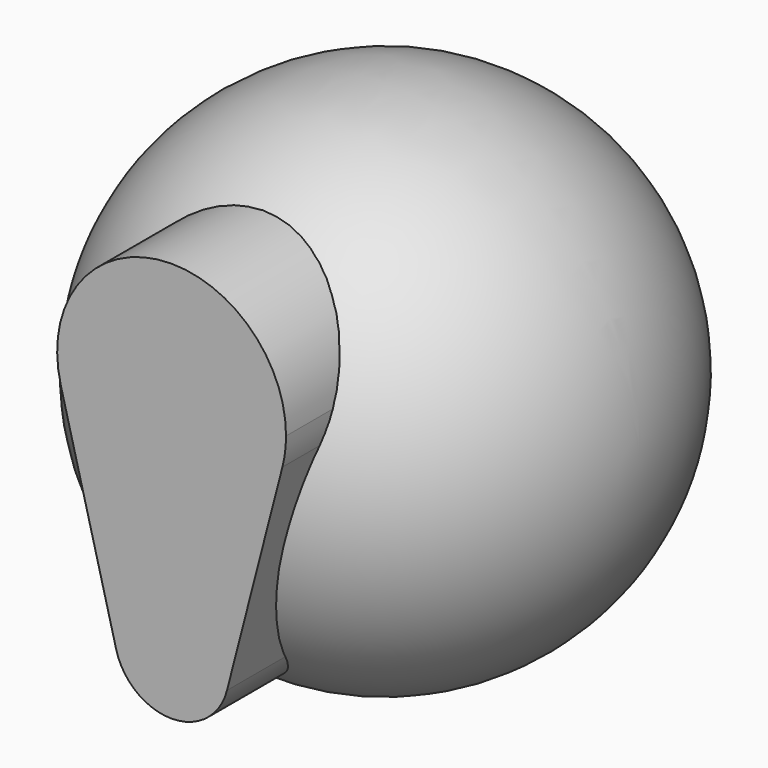
from build123d import *

# Parameters (mm, degrees)
F2_DEPTH = 105


with BuildPart() as f1:
    # F0 (on Front) → F1 (revolve)
    with BuildSketch(Plane.XZ):
        with BuildLine():
            ThreePointArc((-43.5710626448, -11.25), (-5.6701931617, 44.641336332), (45, 0))
            ThreePointArc((45, 0), (44.641336332, -5.6701931617), (43.5710626448, -11.25))
            Line((43.5710626448, -11.25), (37.4388390133, -35))
            Line((37.4388390133, -35), (100, -35))
            ThreePointArc((100, -35), (0, 65), (-100, -35))
            Line((-100, -35), (-37.4388390133, -35))
            Line((-37.4388390133, -35), (-43.5710626448, -11.25))
        make_face()
        with BuildLine():
            ThreePointArc((43.5710626448, -11.25), (44.641336332, -5.6701931617), (45, 0))
            ThreePointArc((45, 0), (-5.6701931617, 44.641336332), (-43.5710626448, -11.25))
            ThreePointArc((-43.5710626448, -11.25), (-37.8393033392, -24.3554331271), (-28.2842712475, -35))
            Line((-28.2842712475, -35), (28.2842712475, -35))
            ThreePointArc((28.2842712475, -35), (37.8393033392, -24.3554331271), (43.5710626448, -11.25))
        make_face()
        with BuildLine():
            ThreePointArc((-28.2842712475, -35), (-37.8393033392, -24.3554331271), (-43.5710626448, -11.25))
            Line((-43.5710626448, -11.25), (-37.4388390133, -35))
            Line((-37.4388390133, -35), (-28.2842712475, -35))
        make_face()
        with BuildLine():
            Line((37.4388390133, -35), (43.5710626448, -11.25))
            ThreePointArc((43.5710626448, -11.25), (37.8393033392, -24.3554331271), (28.2842712475, -35))
            Line((28.2842712475, -35), (37.4388390133, -35))
        make_face()
    revolve(axis=Axis((0, 0, -35), (-1, 0, 0)))


with BuildPart() as f2:
    # F0 (on Front) → F2 (new body)
    with BuildSketch(Plane.XZ):
        with BuildLine():
            ThreePointArc((43.5710626448, -11.25), (44.641336332, -5.6701931617), (45, 0))
            ThreePointArc((45, 0), (-5.6701931617, 44.641336332), (-43.5710626448, -11.25))
            ThreePointArc((-43.5710626448, -11.25), (-37.8393033392, -24.3554331271), (-28.2842712475, -35))
            Line((-28.2842712475, -35), (28.2842712475, -35))
            ThreePointArc((28.2842712475, -35), (37.8393033392, -24.3554331271), (43.5710626448, -11.25))
        make_face()
        with BuildLine():
            ThreePointArc((-28.2842712475, -35), (-37.8393033392, -24.3554331271), (-43.5710626448, -11.25))
            Line((-43.5710626448, -11.25), (-37.4388390133, -35))
            Line((-37.4388390133, -35), (-28.2842712475, -35))
        make_face()
        with BuildLine():
            ThreePointArc((28.2842712475, -35), (0, -45), (-28.2842712475, -35))
            Line((-28.2842712475, -35), (-37.4388390133, -35))
            Line((-37.4388390133, -35), (-21.7855313224, -95.625))
            ThreePointArc((-21.7855313224, -95.625), (-2.8350965809, -67.679331834), (22.5, -90))
            ThreePointArc((22.5, -90), (22.320668166, -92.8350965809), (21.7855313224, -95.625))
            Line((21.7855313224, -95.625), (37.4388390133, -35))
            Line((37.4388390133, -35), (28.2842712475, -35))
        make_face()
        with BuildLine():
            Line((28.2842712475, -35), (-28.2842712475, -35))
            ThreePointArc((-28.2842712475, -35), (0, -45), (28.2842712475, -35))
        make_face()
        with BuildLine():
            Line((37.4388390133, -35), (43.5710626448, -11.25))
            ThreePointArc((43.5710626448, -11.25), (37.8393033392, -24.3554331271), (28.2842712475, -35))
            Line((28.2842712475, -35), (37.4388390133, -35))
        make_face()
        with BuildLine():
            ThreePointArc((22.5, -90), (-2.8350965809, -67.679331834), (-21.7855313224, -95.625))
            ThreePointArc((-21.7855313224, -95.625), (0, -112.5), (21.7855313224, -95.625))
            ThreePointArc((21.7855313224, -95.625), (22.320668166, -92.8350965809), (22.5, -90))
        make_face()
    extrude(amount=F2_DEPTH)


solid = Compound([f1.part, f2.part])
